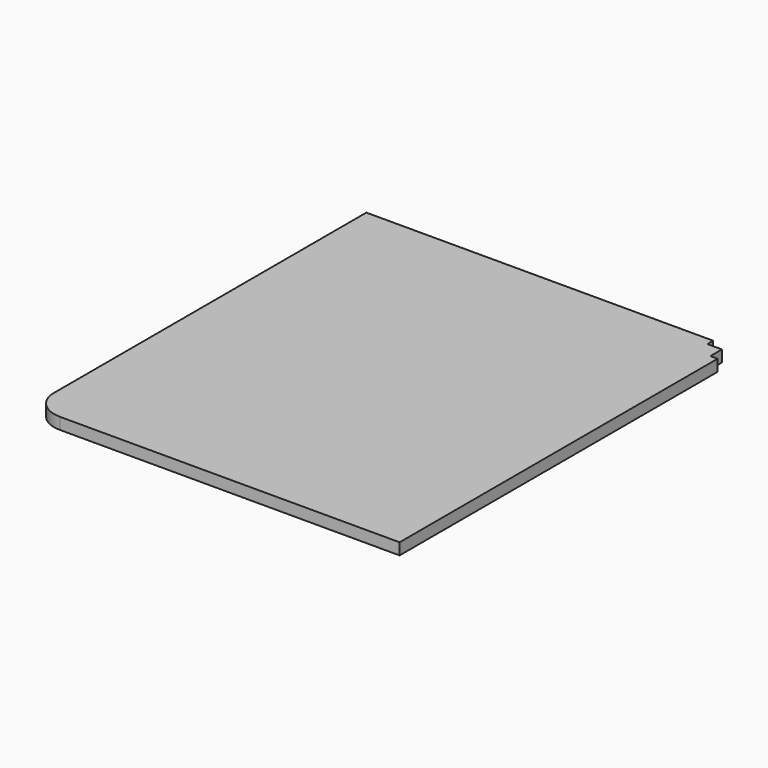
from build123d import *

# Parameters (mm, degrees)
F1_DEPTH = 8


with BuildPart() as f1:
    # F0 (on Top) → F1 (new body)
    with BuildSketch(Plane.XY):
        with BuildLine():
            Line((112.5, 140), (112.5, 145))
            Line((112.5, 145), (-127.5, 145))
            Line((-127.5, 145), (-127.5, -125))
            ThreePointArc((-127.5, -125), (-121.642136, -139.142136), (-107.5, -145))
            Line((-107.5, -145), (127.5, -145))
            Line((127.5, -145), (127.5, 130))
            Line((127.5, 130), (122.5, 130))
            Line((122.5, 130), (122.5, 140))
            Line((122.5, 140), (112.5, 140))
        make_face()
    extrude(amount=F1_DEPTH)


solid = f1.part
